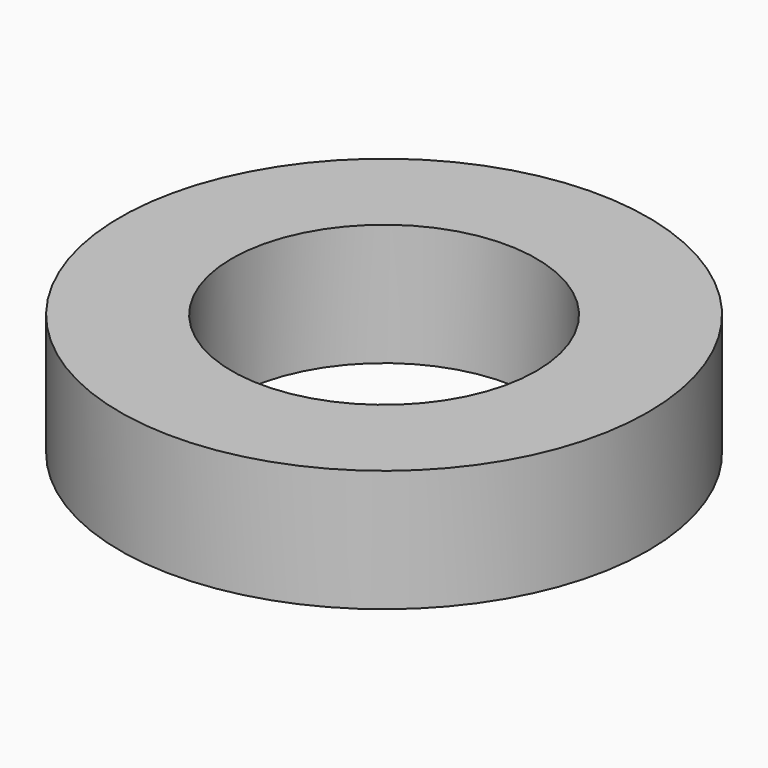
from build123d import *

# Parameters (mm, degrees)
SKETCH_R      = 26
SKETCH_R_2    = 15
PAD_DEPTH     = 12
SKETCH001_R   = 48
SKETCH001_R_2 = 34
POCKET_DEPTH  = 5


with BuildPart() as part:
    # Sketch → Pad (new body)
    with BuildSketch(Plane.XY):
        Circle(SKETCH_R)
        Circle(SKETCH_R_2, mode=Mode.SUBTRACT)
    extrude(amount=PAD_DEPTH)

    # Sketch001 (on Face4 of Pad) → Pocket (cut)
    with BuildSketch(Plane.XY.offset(12)):
        Circle(SKETCH001_R)
        Circle(SKETCH001_R_2, mode=Mode.SUBTRACT)
    extrude(amount=-POCKET_DEPTH, mode=Mode.SUBTRACT)


solid = part.part
